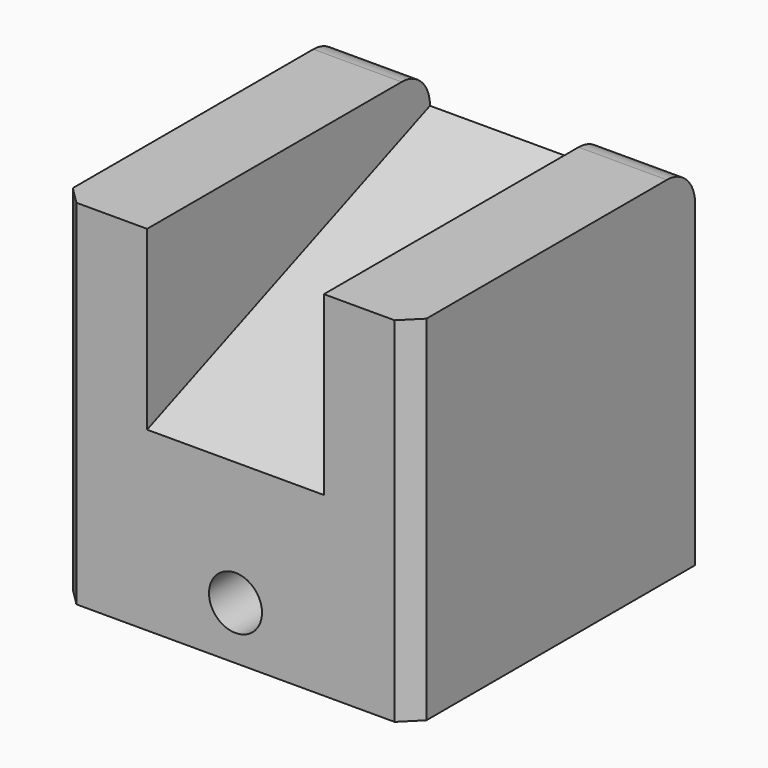
from build123d import *

# Parameters (mm, degrees)
F0_W     = 100
F0_H     = 100
F0_R     = 7.5
F1_DEPTH = 100
F4_DEPTH = 25
F5_R     = 10
F6_SIZE  = 5
F7_W     = 10
F7_H     = 10
F8_DEPTH = 20


with BuildPart() as f1:
    # F0 (on Front) → F1 (new body)
    with BuildSketch(Plane.XZ):
        with Locations((50, 50)):
            Rectangle(F0_W, F0_H)
        with Locations((50, 15)):
            Circle(F0_R, mode=Mode.SUBTRACT)
    extrude(amount=F1_DEPTH)

    # F3 (on mid) → F4 (cut, symmetric)
    with BuildSketch(Plane.YZ.offset(50)):
        Polygon((-100, 50), (0, 90), (0, 100), (-100, 100), align=None)
    extrude(amount=F4_DEPTH, both=True, mode=Mode.SUBTRACT)

    # F5
    f5_edges = [f1.edges().sort_by_distance(p)[0] for p in [
        (12.5, 0, 100),
        (87.5, 0, 100),
    ]]
    fillet(f5_edges, radius=F5_R)

    # F6
    f6_edges = [f1.edges().sort_by_distance(p)[0] for p in [
        (100, -100, 50),
        (0, -100, 50),
    ]]
    chamfer(f6_edges, length=F6_SIZE)

    # F7 (on Right) → F8 (cut)
    with BuildSketch(Plane.YZ):
        with Locations((-20, 15)):
            Rectangle(F7_W, F7_H)
        with Locations((-40, 15)):
            Rectangle(F7_W, F7_H)
        with Locations((-60, 15)):
            Rectangle(F7_W, F7_H)
        with Locations((-80, 15)):
            Rectangle(F7_W, F7_H)
    extrude(amount=F8_DEPTH, mode=Mode.SUBTRACT)


solid = f1.part
